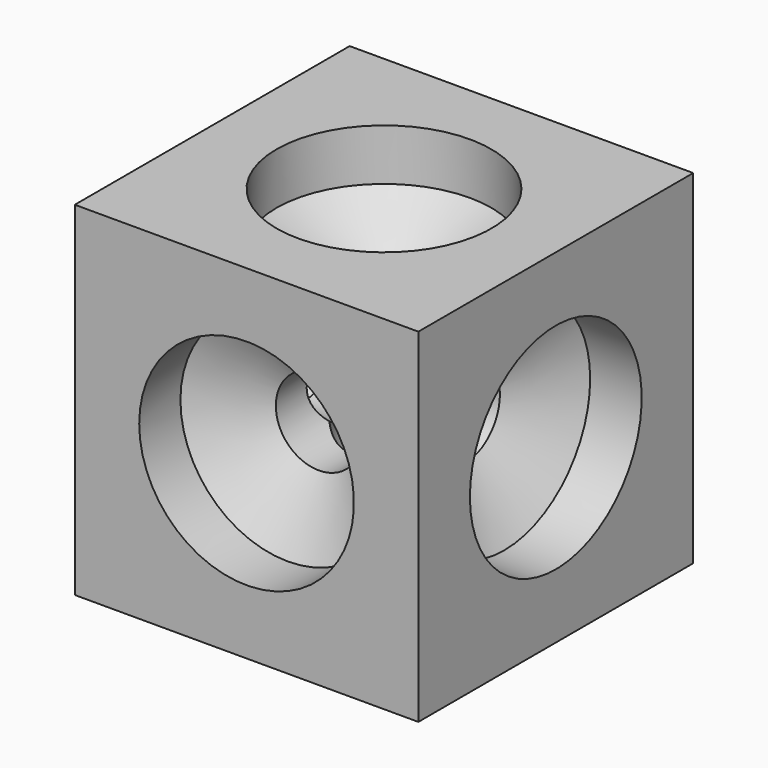
from build123d import *

# Parameters (mm, degrees)
F0_W           = 40
F0_H           = 40
F1_DEPTH       = 20
F8_D           = 10
F8_ON_F3_D     = 10
F8_ON_F2_D     = 10
F9_D           = 25
F9_DEPTH       = 6
F9_TIP         = 7.5107577378
F9_ON_F3_D     = 25
F9_ON_F3_DEPTH = 6
F9_ON_F3_TIP   = 7.5107577378
F9_ON_F2_D     = 25
F9_ON_F2_DEPTH = 6
F9_ON_F2_TIP   = 7.5107577378
F9_ON_F7_D     = 25
F9_ON_F7_DEPTH = 6
F9_ON_F7_TIP   = 7.5107577378
F9_ON_F6_D     = 25
F9_ON_F6_DEPTH = 6
F9_ON_F6_TIP   = 7.5107577378
F9_ON_F5_D     = 25
F9_ON_F5_DEPTH = 6
F9_ON_F5_TIP   = 7.5107577378


with BuildPart() as f1:
    # F0 (on Top) → F1 (new body, symmetric)
    with BuildSketch(Plane.XY):
        Rectangle(F0_W, F0_H)
    extrude(amount=F1_DEPTH, both=True)

    # F8 (through all)
    with Locations(Plane(origin=(0, 0, -20), x_dir=(1, 0, 0), z_dir=(0, 0, -1))):
        with Locations((0, 0)):
            Hole(F8_D / 2)

    # F8 on F3 (through all)
    with Locations(Plane(origin=(0, 20, 0), x_dir=(-1, 0, 0), z_dir=(0, 1, 0))):
        with Locations((0, 0)):
            Hole(F8_ON_F3_D / 2)

    # F8 on F2 (through all)
    with Locations(Plane.YZ.offset(20)):
        with Locations((0, 0)):
            Hole(F8_ON_F2_D / 2)

    # F9
    with Locations(Plane(origin=(0, 0, -20), x_dir=(1, 0, 0), z_dir=(0, 0, -1))):
        with Locations((0, 0)):
            Hole(F9_D / 2, depth=F9_DEPTH)
            with Locations((0, 0, -(F9_DEPTH + F9_TIP / 2))):  # 118° drill point
                Cone(0, F9_D / 2, F9_TIP, mode=Mode.SUBTRACT)

    # F9 on F3
    with Locations(Plane(origin=(0, 20, 0), x_dir=(-1, 0, 0), z_dir=(0, 1, 0))):
        with Locations((0, 0)):
            Hole(F9_ON_F3_D / 2, depth=F9_ON_F3_DEPTH)
            with Locations((0, 0, -(F9_ON_F3_DEPTH + F9_ON_F3_TIP / 2))):  # 118° drill point
                Cone(0, F9_ON_F3_D / 2, F9_ON_F3_TIP, mode=Mode.SUBTRACT)

    # F9 on F2
    with Locations(Plane.YZ.offset(20)):
        with Locations((0, 0)):
            Hole(F9_ON_F2_D / 2, depth=F9_ON_F2_DEPTH)
            with Locations((0, 0, -(F9_ON_F2_DEPTH + F9_ON_F2_TIP / 2))):  # 118° drill point
                Cone(0, F9_ON_F2_D / 2, F9_ON_F2_TIP, mode=Mode.SUBTRACT)

    # F9 on F7
    with Locations(Plane.XZ.offset(20)):
        with Locations((0, 0)):
            Hole(F9_ON_F7_D / 2, depth=F9_ON_F7_DEPTH)
            with Locations((0, 0, -(F9_ON_F7_DEPTH + F9_ON_F7_TIP / 2))):  # 118° drill point
                Cone(0, F9_ON_F7_D / 2, F9_ON_F7_TIP, mode=Mode.SUBTRACT)

    # F9 on F6
    with Locations(Plane(origin=(-20, 0, 0), x_dir=(0, -1, 0), z_dir=(-1, 0, 0))):
        with Locations((0, 0)):
            Hole(F9_ON_F6_D / 2, depth=F9_ON_F6_DEPTH)
            with Locations((0, 0, -(F9_ON_F6_DEPTH + F9_ON_F6_TIP / 2))):  # 118° drill point
                Cone(0, F9_ON_F6_D / 2, F9_ON_F6_TIP, mode=Mode.SUBTRACT)

    # F9 on F5
    with Locations(Plane.XY.offset(20)):
        with Locations((0, 0)):
            Hole(F9_ON_F5_D / 2, depth=F9_ON_F5_DEPTH)
            with Locations((0, 0, -(F9_ON_F5_DEPTH + F9_ON_F5_TIP / 2))):  # 118° drill point
                Cone(0, F9_ON_F5_D / 2, F9_ON_F5_TIP, mode=Mode.SUBTRACT)


with BuildPart() as f10_1:
    # F10: copy of F1
    add(f1.part)


solid = Compound([f1.part, f10_1.part])
